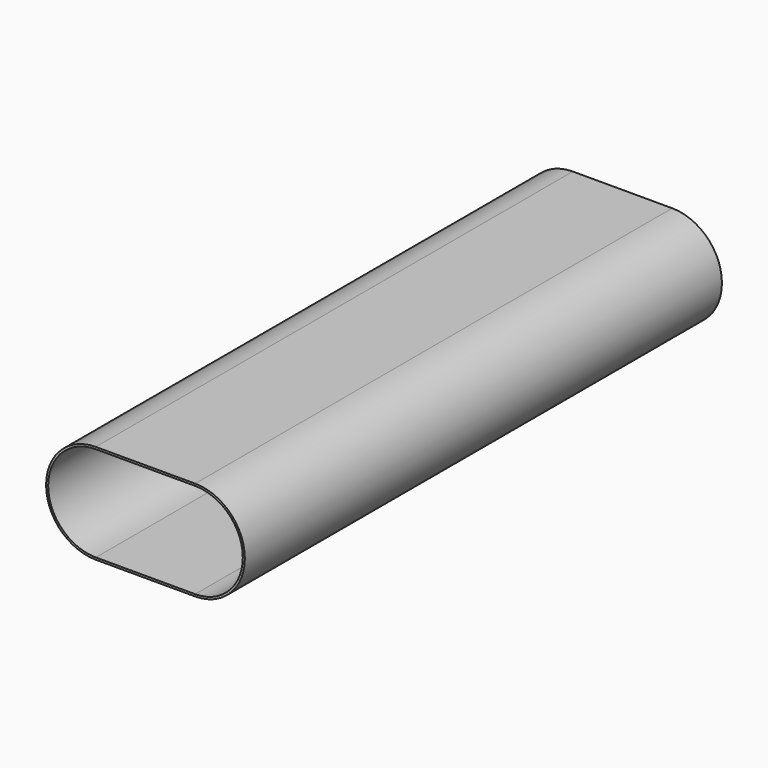
from build123d import *

# Parameters (mm, degrees)
F1_DEPTH = 914.4
F2_DEPTH = 25.4


with BuildPart() as f1:
    # F0 (on Front) → F1 (new body)
    with BuildSketch(Plane.XZ):
        with BuildLine():
            Line((36.2993537875, 76.2), (-116.1006462125, 76.2))
            ThreePointArc((-116.1006462125, 76.2), (-192.3006462125, 0), (-116.1006462125, -76.2))
            Line((-116.1006462125, -76.2), (36.2993537875, -76.2))
            ThreePointArc((36.2993537875, -76.2), (112.4993537875, 0), (36.2993537875, 76.2))
        make_face()
        with BuildLine():
            ThreePointArc((-116.1006462125, -73.025), (-189.1256462125, 0), (-116.1006462125, 73.025))
            Line((-116.1006462125, 73.025), (36.2993537875, 73.025))
            ThreePointArc((36.2993537875, 73.025), (109.3243537875, 0), (36.2993537875, -73.025))
            Line((36.2993537875, -73.025), (-116.1006462125, -73.025))
        make_face(mode=Mode.SUBTRACT)
    extrude(amount=F1_DEPTH)

    # F0 (on Front) → F2 (join)
    with BuildSketch(Plane.XZ):
        with BuildLine():
            Line((36.2993537875, 73.025), (-116.1006462125, 73.025))
            ThreePointArc((-116.1006462125, 73.025), (-189.1256462125, 0), (-116.1006462125, -73.025))
            Line((-116.1006462125, -73.025), (36.2993537875, -73.025))
            ThreePointArc((36.2993537875, -73.025), (109.3243537875, 0), (36.2993537875, 73.025))
        make_face()
    extrude(amount=F2_DEPTH)


solid = f1.part
